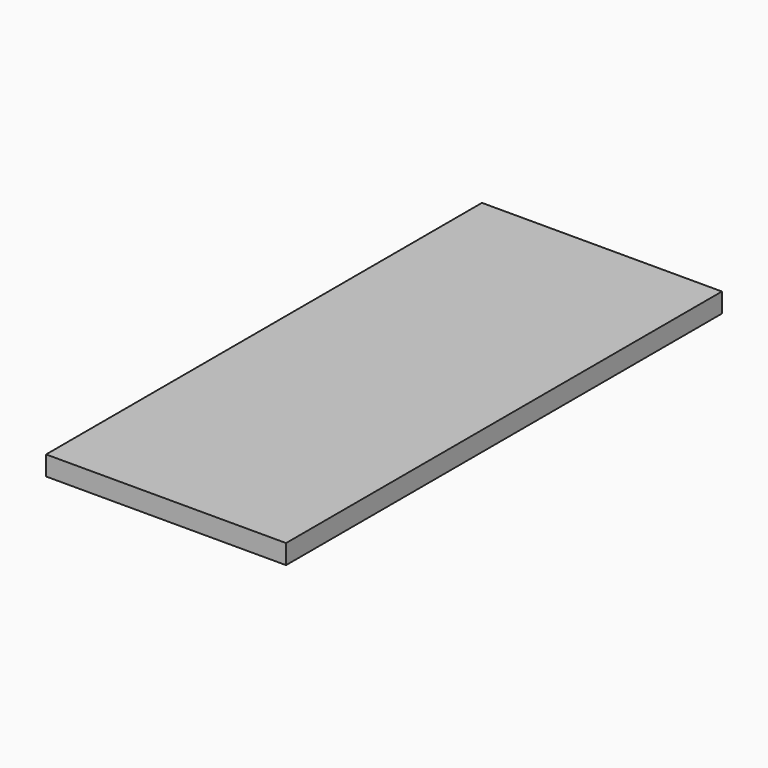
from build123d import *

# Parameters (mm, degrees)
SKETCH_W  = 370
SKETCH_H  = 840
PAD_DEPTH = 30


with BuildPart() as part:
    # Sketch → Pad (new body)
    with BuildSketch(Plane.XY):
        Rectangle(SKETCH_W, SKETCH_H)
    extrude(amount=PAD_DEPTH)


solid = part.part
